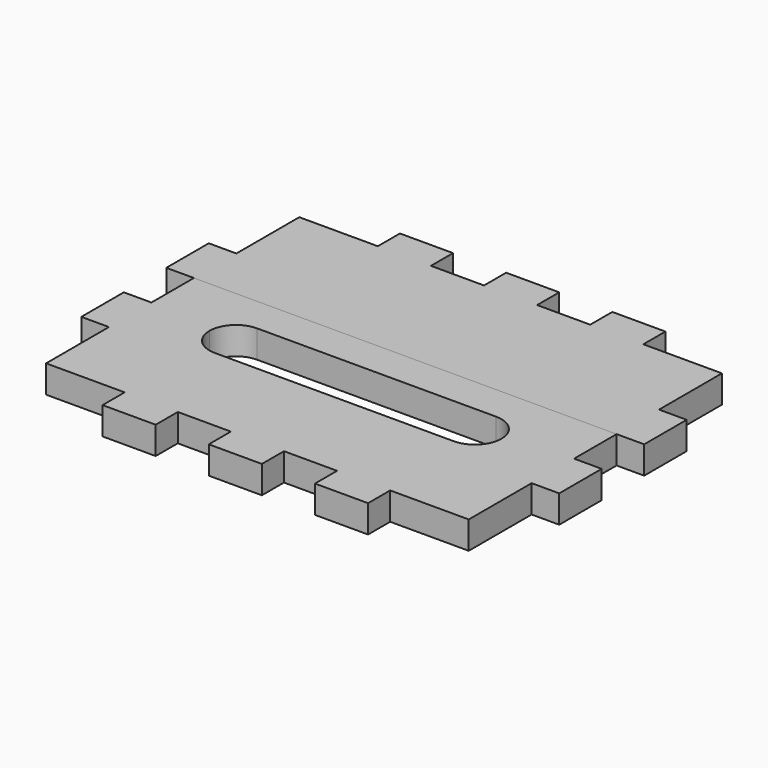
from build123d import *

# Parameters (mm, degrees)
F1_DEPTH = 6.604
F2_DEPTH = 6.604


with BuildPart() as f1:
    # F0 (on Top) → F1 (new body)
    with BuildSketch(Plane.XY):
        Polygon((38.1, 0), (25.4, 0), (25.4, -6.604), (6.604, -6.604), (6.604, -25.4), (0, -25.4), (0, -38.1), (6.604, -38.1), (107.696, -38.1), (114.3, -38.1), (114.3, -25.4), (107.696, -25.4), (107.696, -6.604), (88.9, -6.604), (88.9, 0), (76.2, 0), (76.2, -6.604), (63.5, -6.604), (63.5, 0), (50.8, 0), (50.8, -6.604), (38.1, -6.604), align=None)
    extrude(amount=F1_DEPTH)


with BuildPart() as f2:
    # F0 (on Top) → F2 (new body)
    with BuildSketch(Plane.XY):
        Polygon((107.696, -38.1), (6.604, -38.1), (6.604, -50.8), (0, -50.8), (0, -63.5), (6.604, -63.5), (6.604, -82.296), (25.4, -82.296), (25.4, -88.9), (38.1, -88.9), (38.1, -82.296), (50.8, -82.296), (50.8, -88.9), (63.5, -88.9), (63.5, -82.296), (76.2, -82.296), (76.2, -88.9), (88.9, -88.9), (88.9, -82.296), (107.696, -82.296), (107.696, -63.5), (114.3, -63.5), (114.3, -50.8), (107.696, -50.8), align=None)
        with BuildLine():
            ThreePointArc((22.225, -52.986074), (24.084872, -48.495946), (28.575, -46.636074))
            Line((28.575, -46.636074), (85.725, -46.636074))
            ThreePointArc((85.725, -46.636074), (90.215128, -48.495946), (92.075, -52.986074))
            ThreePointArc((92.075, -52.986074), (90.215128, -57.476202), (85.725, -59.336074))
            Line((85.725, -59.336074), (28.575, -59.336074))
            ThreePointArc((28.575, -59.336074), (24.084872, -57.476202), (22.225, -52.986074))
        make_face(mode=Mode.SUBTRACT)
    extrude(amount=F2_DEPTH)


solid = Compound([f1.part, f2.part])
